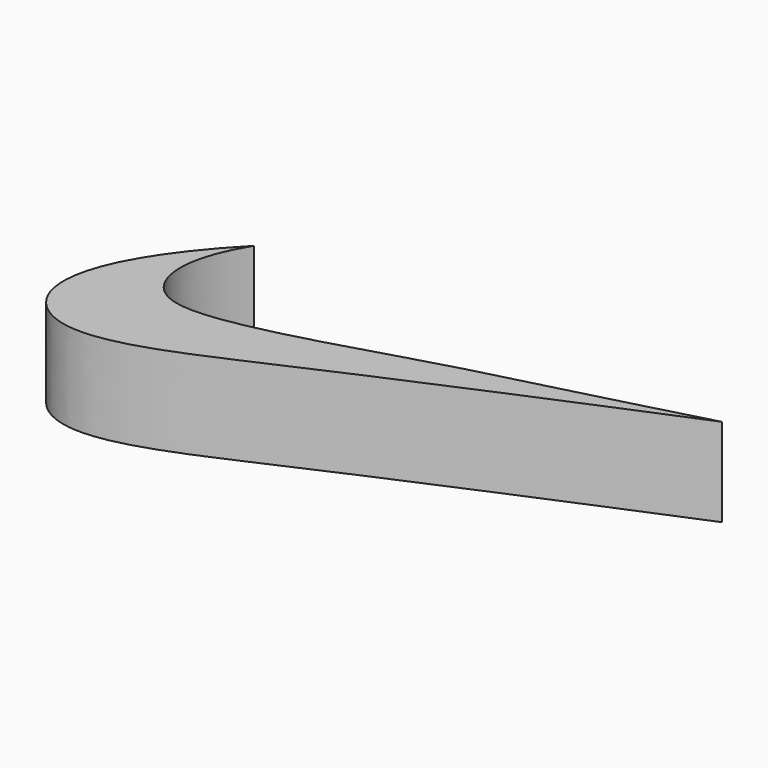
from build123d import *

# Parameters (mm, degrees)
F1_DEPTH = 25.4


with BuildPart() as f1:
    # F0 (on Top) → F1 (new body)
    with BuildSketch(Plane.XY):
        with BuildLine():
            add(Edge.make_bspline(
                [(-92.6876068115, 8.0351457), (-101.107089264, -5.4360347694), (-99.3339940295, -24.7147183481), (-74.3245882681, -26.5384696454), (-17.8891214039, -8.1632546126), (-0.7111337609, -4.9349328951), (42.6902733743, 6.807227619)],
                knots=[0, 0, 0, 0, 0.2126842946, 0.3868403997, 0.6651830699, 1, 1, 1, 1], degree=3))
            add(Edge.make_bspline(
                [(-92.6876068115, 8.0351457), (-124.2589178373, -24.5872952317), (-111.2298235631, -61.0402842473), (-47.5959348717, -31.1128239231), (4.7851285654, -8.9535934321), (42.6902733743, 6.807227619)],
                knots=[0, 0, 0, 0, 0.3015538616, 0.5905636541, 1, 1, 1, 1], degree=3))
        make_face()
    extrude(amount=F1_DEPTH)


solid = f1.part
